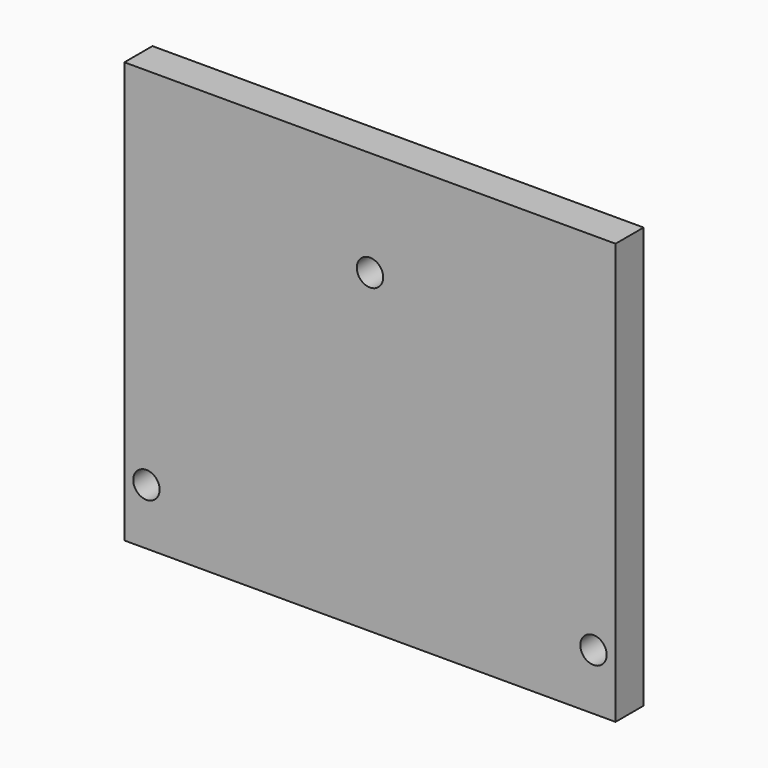
from build123d import *

# Parameters (mm, degrees)
F0_W     = 88.9
F0_H     = 76.2
F0_R     = 2.3876
F1_DEPTH = 6.35


with BuildPart() as f1:
    # F0 (on Front) → F1 (new body)
    with BuildSketch(Plane.XZ):
        with Locations((0, 38.1)):
            Rectangle(F0_W, F0_H)
        with Locations((-40.4622, 10.16)):
            Circle(F0_R, mode=Mode.SUBTRACT)
        with Locations((40.4622, 10.16)):
            Circle(F0_R, mode=Mode.SUBTRACT)
        with Locations((0, 57.15)):
            Circle(F0_R, mode=Mode.SUBTRACT)
    extrude(amount=-F1_DEPTH)


solid = f1.part
